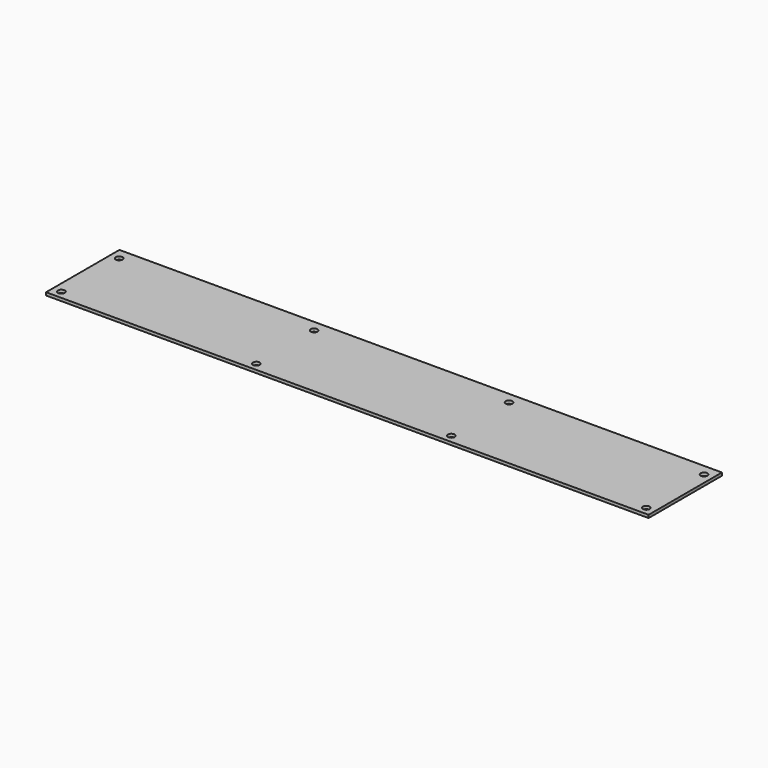
from build123d import *

# Parameters (mm, degrees)
F0_W     = 618
F0_H     = 94
F0_R     = 3.5
F1_DEPTH = 3


with BuildPart() as f1:
    # F0 (on Top) → F1 (new body)
    with BuildSketch(Plane.XY):
        Rectangle(F0_W, F0_H)
        with Locations((-300, -38.614127)):
            Circle(F0_R, mode=Mode.SUBTRACT)
        with Locations((-100, -38.614127)):
            Circle(F0_R, mode=Mode.SUBTRACT)
        with Locations((100, -38.614127)):
            Circle(F0_R, mode=Mode.SUBTRACT)
        with Locations((300, -38.614127)):
            Circle(F0_R, mode=Mode.SUBTRACT)
        with Locations((-300, 35.385873)):
            Circle(F0_R, mode=Mode.SUBTRACT)
        with Locations((-100, 35.385873)):
            Circle(F0_R, mode=Mode.SUBTRACT)
        with Locations((100, 35.385873)):
            Circle(F0_R, mode=Mode.SUBTRACT)
        with Locations((300, 35.385873)):
            Circle(F0_R, mode=Mode.SUBTRACT)
    extrude(amount=F1_DEPTH)


solid = f1.part
